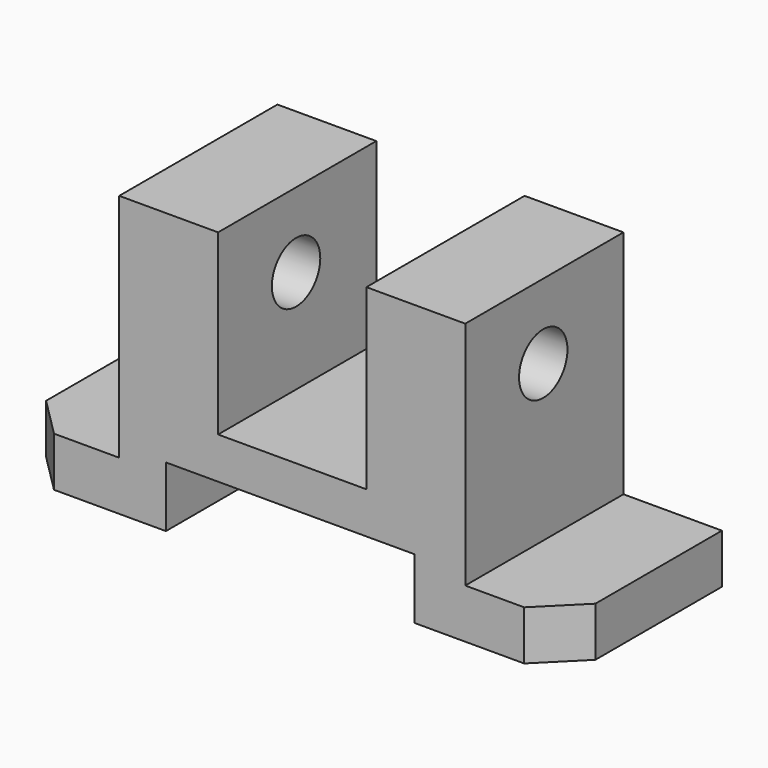
from build123d import *

# Parameters (mm, degrees)
F0_W     = 12.7
F0_H     = 12.7
F1_DEPTH = 50.8
F2_SIZE  = 10.16
F3_SIZE  = 10.16
F4_R     = 7.770906
F5_DEPTH = 99.568


with BuildPart() as f1:
    # F0 (on Front) → F1 (new body)
    with BuildSketch(Plane.XZ):
        with Locations((37.287199, -32.969202)):
            Rectangle(F0_W, F0_H)
        with Locations((-91.128487, -32.969202)):
            Rectangle(F0_W, F0_H)
        Polygon((-84.778487, -26.619202), (-84.778487, -39.319202), (-58.57092, -39.319202), (-58.57092, -23.7744), (5.334001, -23.7744), (5.334001, -39.319202), (30.937199, -39.319202), (30.937199, -26.619202), (18.3388, -26.619202), (18.3388, 32.613602), (-7.0612, 32.613602), (-7.0612, -13.1064), (-45.1612, -13.1064), (-45.1612, 32.613602), (-70.5612, 32.613602), (-70.5612, -26.619202), align=None)
    extrude(amount=F1_DEPTH)

    # F2
    f2_edges = [f1.edges().sort_by_distance(p)[0] for p in [
        (43.637199, -50.8, -32.969202),
    ]]
    chamfer(f2_edges, length=F2_SIZE)

    # F3
    f3_edges = [f1.edges().sort_by_distance(p)[0] for p in [
        (-97.478487, -50.8, -32.969202),
    ]]
    chamfer(f3_edges, length=F3_SIZE)

    # F4 (on face) → F5 (cut)
    with BuildSketch(Plane.YZ.offset(18.3388)):
        with Locations((-25.755601, 13.411201)):
            Circle(F4_R)
    extrude(amount=-F5_DEPTH, mode=Mode.SUBTRACT)


solid = f1.part
